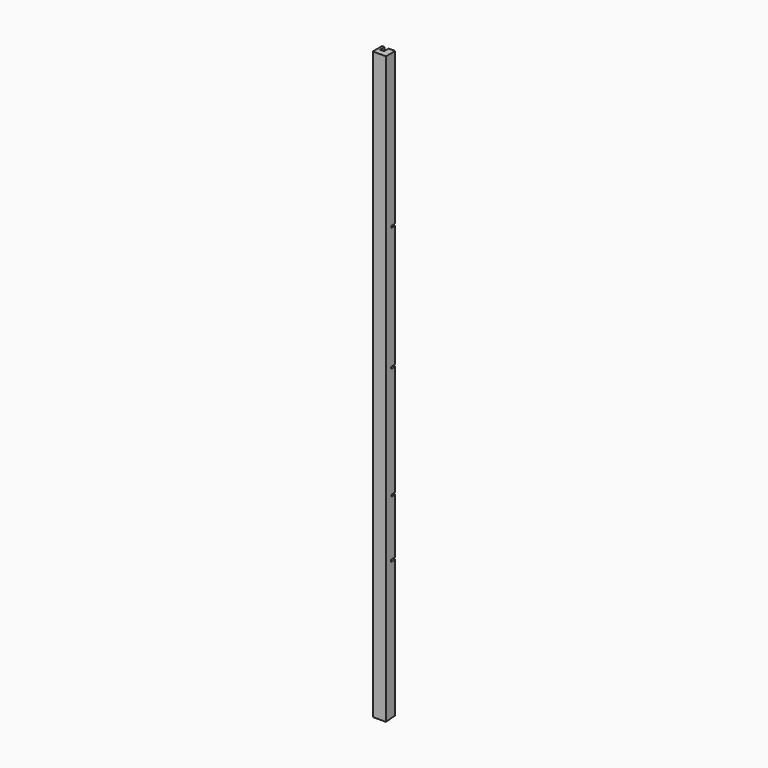
from build123d import *

# Parameters (mm, degrees)
F0_W      = 50.8
F0_H      = 44.45
F1_DEPTH  = 2254.25
F2_W      = 15.875
F2_H      = 22.225
F3_DEPTH  = 2260.6
F5_DEPTH  = 76.2
F11_DEPTH = 7.62
F13_DEPTH = 7.62
F15_DEPTH = 7.62
F17_DEPTH = 7.62


with BuildPart() as f1:
    # F0 (on Top) → F1 (new body)
    with BuildSketch(Plane.XY):
        with Locations((25.4, 22.225)):
            Rectangle(F0_W, F0_H)
    extrude(amount=F1_DEPTH)

    # F2 (on face) → F3 (cut)
    with BuildSketch(Plane.XY.offset(2254.25)):
        with Locations((17.4625, 33.3375)):
            Rectangle(F2_W, F2_H)
    extrude(amount=-F3_DEPTH, mode=Mode.SUBTRACT)

    # F4 (on face) → F5 (cut)
    with BuildSketch(Plane.YZ.offset(50.8)):
        Polygon((44.45, 3.8888710937), (0, 0), (44.45, 0), align=None)
    extrude(amount=-F5_DEPTH, mode=Mode.SUBTRACT)

    # F10 (on offset) → F11 (cut)
    with BuildSketch(Plane(origin=(0, -45.9354342152, 525.0444156293), x_dir=(1, 0, 0), z_dir=(0, 0.0871557427, -0.9961946981))):
        Polygon((68.3375078249, -83.8695270738), (52.6410068005, -68.1730260494), (29.9672586024, -90.8467742476), (45.6637596268, -106.543275272), align=None)
    extrude(amount=-F11_DEPTH, mode=Mode.SUBTRACT)

    # F12 (on offset) → F13 (cut)
    with BuildSketch(Plane(origin=(0, -65.0290785576, 743.2857691137), x_dir=(1, 0, 0), z_dir=(0, 0.0871557427, -0.9961946981))):
        Polygon((50.8, -93.1639036529), (30.0833409598, -111.4171829045), (48.0814183777, -131.8441992288), (68.7980774179, -113.5909199772), align=None)
    extrude(amount=-F13_DEPTH, mode=Mode.SUBTRACT)

    # F14 (on offset) → F15 (cut)
    with BuildSketch(Plane(origin=(0, -102.662928276, 1173.4426397497), x_dir=(1, 0, 0), z_dir=(0, 0.0871557427, -0.9961946981))):
        Polygon((50.8, -128.6248757626), (31.75, -147.6748757626), (46.4404728378, -162.3653486004), (65.4904728378, -143.3153486004), align=None)
    extrude(amount=-F15_DEPTH, mode=Mode.SUBTRACT)

    # F16 (on offset) → F17 (cut)
    with BuildSketch(Plane(origin=(0, -144.7242897261, 1654.2062010488), x_dir=(1, 0, 0), z_dir=(0, 0.0871557427, -0.9961946981))):
        Polygon((50.8, -170.8469047802), (31.75, -189.8969047802), (46.5661471594, -204.7130519396), (65.6161471594, -185.6630519396), align=None)
    extrude(amount=F17_DEPTH, mode=Mode.SUBTRACT)


solid = f1.part
